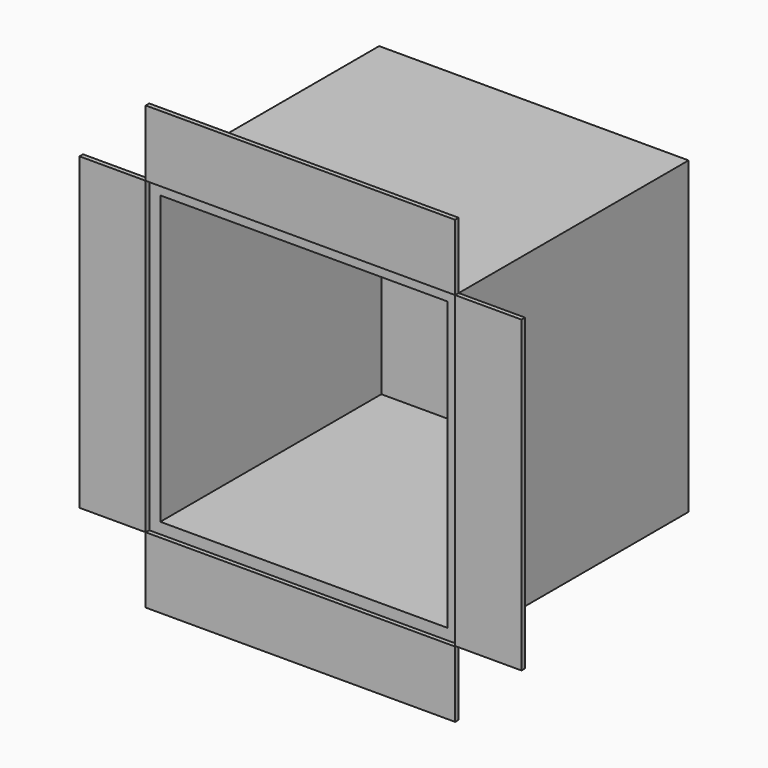
from build123d import *

# Parameters (mm, degrees)
F3_DEPTH = 65
F0_W     = 15
F0_H     = 70
F4_DEPTH = 1
F0_W_2   = 70
F0_H_2   = 15
F0_H_3   = 69.884698689
F5_T     = -2.5
F6_D     = 25.4


with BuildPart() as f3:
    # F0 (on Front) → F3 (new body, through all)
    with BuildSketch(Plane.XZ):
        Polygon((-35, -35), (35, -35), (35, -34.884698689), (35, 35), (-35, 35), align=None)
    extrude(amount=-F3_DEPTH)

    # F5
    f5_openings = [f3.faces().sort_by_distance(p)[0] for p in [
        (0, 0, 0),
    ]]
    offset(amount=F5_T, openings=f5_openings)

    # F6 (through all)
    with Locations(Plane(origin=(0, 65, 0), x_dir=(1, 0, 0), z_dir=(0, 1, 0))):
        with Locations((0, 0)):
            Hole(F6_D / 2)


with BuildPart() as f4:
    # F0 (on Front) → F4 (new body)
    with BuildSketch(Plane.XZ):
        with Locations((-42.5, 0)):
            Rectangle(F0_W, F0_H)
    extrude(amount=F4_DEPTH)


with BuildPart() as f4b:
    # F0 (on Front) → F4, piece 2 (new body)
    with BuildSketch(Plane.XZ):
        with Locations((0, 42.5)):
            Rectangle(F0_W_2, F0_H_2)
    extrude(amount=F4_DEPTH)


with BuildPart() as f4c:
    # F0 (on Front) → F4, piece 3 (new body)
    with BuildSketch(Plane.XZ):
        with Locations((42.5, 0.0576506555)):
            Rectangle(F0_W, F0_H_3)
    extrude(amount=F4_DEPTH)


with BuildPart() as f4d:
    # F0 (on Front) → F4, piece 4 (new body)
    with BuildSketch(Plane.XZ):
        with Locations((0, -42.5)):
            Rectangle(F0_W_2, F0_H_2)
    extrude(amount=F4_DEPTH)


solid = Compound([f3.part, f4.part, f4b.part, f4c.part, f4d.part])
